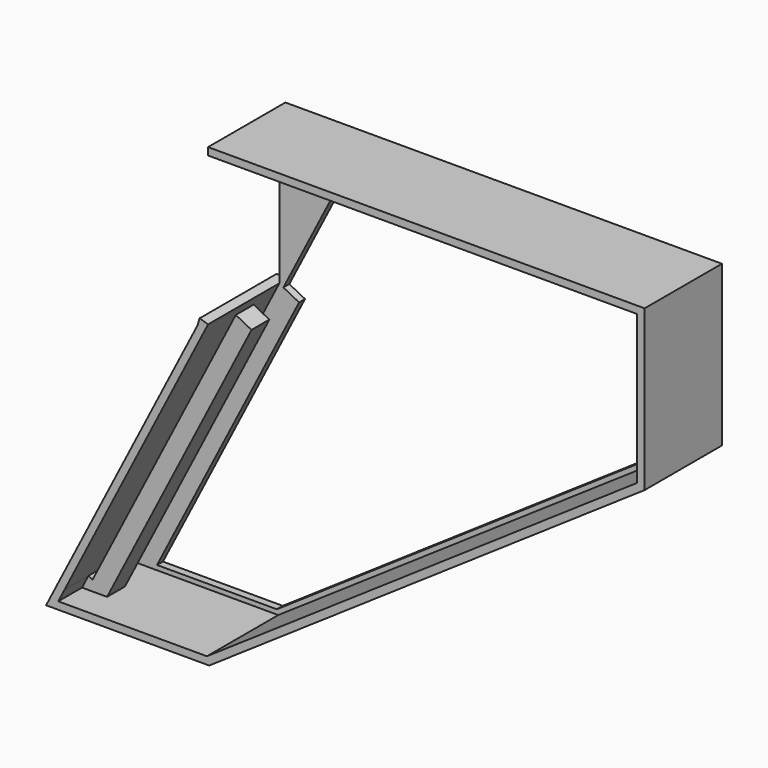
from build123d import *

# Parameters (mm, degrees)
F6_DEPTH = 8
F7_DEPTH = 104
F8_START = 48
F8_DEPTH = 24


with BuildPart() as f6:
    # F5 (on Front) → F6 (new body)
    with BuildSketch(Plane.XZ):
        Polygon((258.1512545863, 8), (258.1512545863, 0), (720, 0), (720, -160), (256.8877548805, -474.8444829124), (123.8527919354, -474.8444829124), (96.8877548805, -474.8444829124), (103.7249146428, -461.4958824301), (103.7400223735, -461.4663866938), (103.8133779806, -461.3231701059), (103.8610917427, -461.2300156427), (257.951143964, -160.3906880696), (258.1512545863, -160), (249.0600389619, -157.1826700935), (246.6919749543, -164.824153775), (83.8018052429, -482.8444829124), (259.3496117054, -482.8444829124), (728, -164.234921787), (728, 8), align=None)
        Polygon((720, 0), (258.1512545863, 0), (258.1512545863, -160), (262.6014617103, -162.2793982877), (343.1600472217, -5), (715, -5), (715, -157.3531738831), (255.3490943649, -469.8444829124), (126.4137944058, -469.8444829124), (123.8527919354, -474.8444829124), (256.8877548805, -474.8444829124), (720, -160), align=None)
        Polygon((96.8877548805, -474.8444829124), (123.8527919354, -474.8444829124), (126.4137944058, -469.8444829124), (105.066473404, -469.8444829124), (108.2219495636, -463.6838559781), (106.4825408482, -462.7524437274), (103.7249146428, -461.4958824301), align=None)
        Polygon((279.3121381591, -171.3317998503), (262.401351088, -162.6700863573), (108.3112988667, -463.5094139303), (108.2795983128, -463.5713048387), (108.2219495636, -463.6838559781), (105.066473404, -469.8444829124), (126.4137944058, -469.8444829124), align=None)
        Polygon((96.8877548805, -474.8444829124), (123.8527919354, -474.8444829124), (126.4137944058, -469.8444829124), (105.066473404, -469.8444829124), (108.2219495636, -463.6838559781), (106.4825408482, -462.7524437274), (103.7249146428, -461.4958824301), align=None)
        Polygon((262.6014617103, -162.2793982877), (258.1512545863, -160), (257.951143964, -160.3906880696), (262.401351088, -162.6700863573), align=None)
        Polygon((262.401351088, -162.6700863573), (257.951143964, -160.3906880696), (103.8610917427, -461.2300156427), (108.3112988667, -463.5094139303), align=None)
    extrude(amount=F6_DEPTH)

    # F5 (on Front) → F7 (join)
    with BuildSketch(Plane.XZ):
        Polygon((258.1512545863, 8), (258.1512545863, 0), (720, 0), (720, -160), (256.8877548805, -474.8444829124), (123.8527919354, -474.8444829124), (96.8877548805, -474.8444829124), (103.7249146428, -461.4958824301), (103.7400223735, -461.4663866938), (103.8133779806, -461.3231701059), (103.8610917427, -461.2300156427), (257.951143964, -160.3906880696), (258.1512545863, -160), (249.0600389619, -157.1826700935), (246.6919749543, -164.824153775), (83.8018052429, -482.8444829124), (259.3496117054, -482.8444829124), (728, -164.234921787), (728, 8), align=None)
    extrude(amount=F7_DEPTH)

    # F5 (on Front) → F8 (join)
    with BuildSketch(Plane.XZ.offset(F8_START)):
        Polygon((96.8877548805, -474.8444829124), (123.8527919354, -474.8444829124), (126.4137944058, -469.8444829124), (105.066473404, -469.8444829124), (108.2219495636, -463.6838559781), (106.4825408482, -462.7524437274), (103.7249146428, -461.4958824301), align=None)
        Polygon((279.3121381591, -171.3317998503), (262.401351088, -162.6700863573), (108.3112988667, -463.5094139303), (108.2795983128, -463.5713048387), (108.2219495636, -463.6838559781), (105.066473404, -469.8444829124), (126.4137944058, -469.8444829124), align=None)
    extrude(amount=F8_DEPTH)


solid = f6.part
